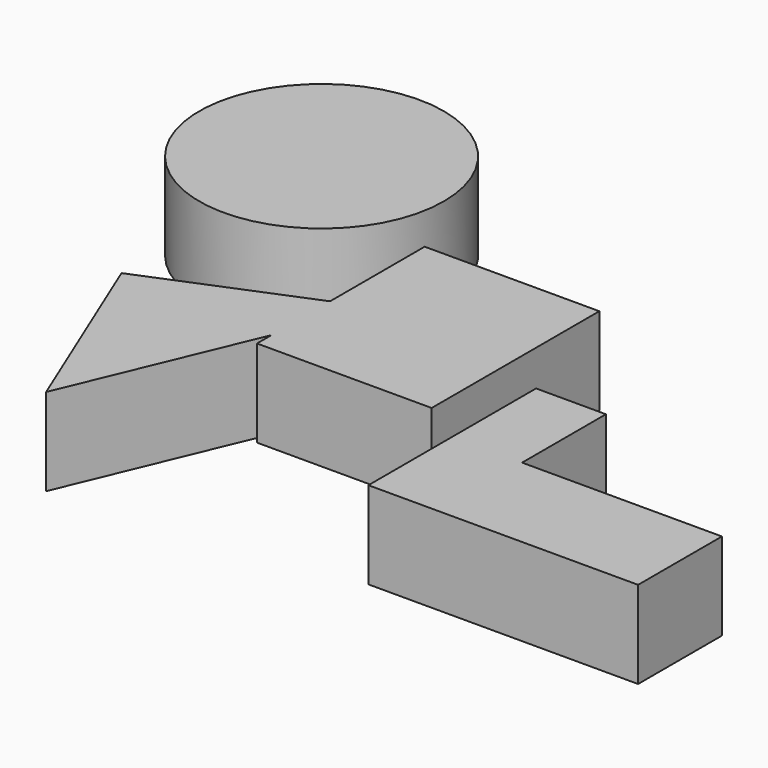
from build123d import *

# Parameters (mm, degrees)
F2_R     = 35
F4_DEPTH = 25
F0_W     = 50
F0_H     = 60
F5_DEPTH = 25
F6_DEPTH = 25
F7_DEPTH = 25


with BuildPart() as f4:
    # F2 (on Top) → F4 (new body)
    with BuildSketch(Plane.XY):
        with Locations((-63.758358, 58.122706)):
            Circle(F2_R)
    extrude(amount=F4_DEPTH)


with BuildPart() as f5:
    # F0 (on Top) → F5 (new body)
    with BuildSketch(Plane.XY):
        with Locations((6.598763, 8.329774)):
            Rectangle(F0_W, F0_H)
    extrude(amount=F5_DEPTH)

    # F1 (on Top) → F6 (join)
    with BuildSketch(Plane.XY):
        Polygon((-63.342893, -13.994213), (-40.534549, -69.489974), (-7.847132, 8.81413), align=None)
    extrude(amount=F6_DEPTH)


with BuildPart() as f7:
    # F3 (on Top) → F7 (new body)
    with BuildSketch(Plane.XY):
        Polygon((63.917592, 0.299875), (43.917592, 0.299875), (43.917592, -59.700125), (61.126889, -59.700125), (63.917592, -59.700125), (121.126889, -59.700125), (121.126889, -29.700125), (63.917592, -29.700125), align=None)
    extrude(amount=F7_DEPTH)


solid = Compound([f4.part, f5.part, f7.part])
